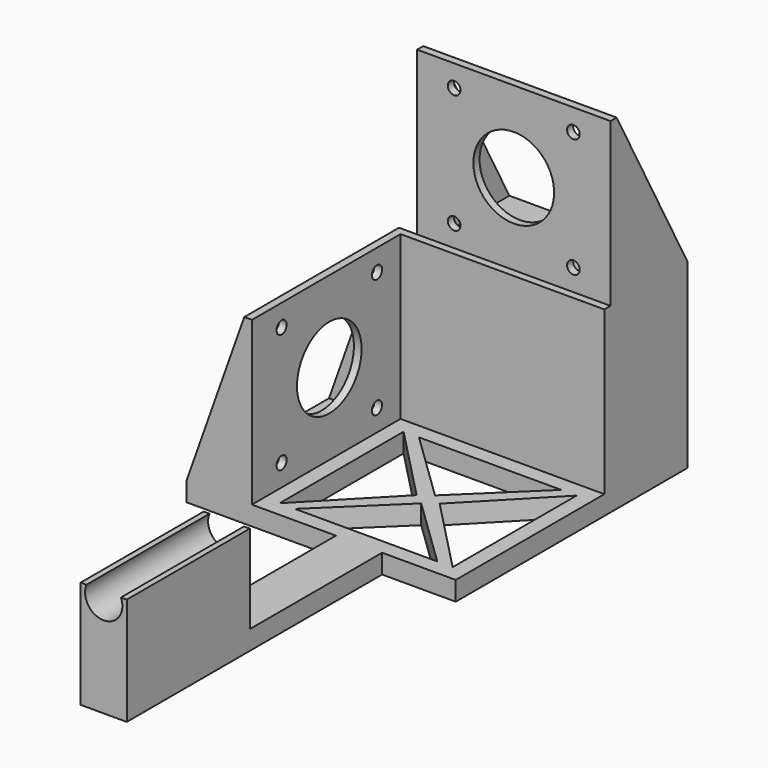
from build123d import *

# Parameters (mm, degrees)
F0_W      = 70
F0_H      = 80
F1_DEPTH  = 5
F2_W      = 2
F2_H      = 42.3
F3_DEPTH  = 42.3
F4_R      = 1.65
F4_R_2    = 10.5
F5_DEPTH  = 25
F7_DEPTH  = 4
F9_DEPTH  = 4
F10_W     = 70
F10_H     = 29.7
F11_DEPTH = 42.3
F12_W     = 42.3
F12_H     = 2
F13_DEPTH = 42.3
F14_R     = 1.65
F14_R_2   = 10.5
F15_DEPTH = 25
F17_DEPTH = 4
F19_DEPTH = 88.9
F21_DEPTH = 4
F22_W     = 19.7
F22_H     = 29.7
F23_DEPTH = 64.9
F24_W     = 53
F24_H     = 2
F25_DEPTH = 45.92
F26_W     = 50.3
F26_H     = 4.7
F27_DEPTH = 73.2
F28_W     = 12
F28_H     = 83
F29_DEPTH = 5
F30_W     = 12
F30_H     = 40
F31_DEPTH = 23
F32_R     = 4.85
F33_DEPTH = 45.2
F35_DEPTH = 25


with BuildPart() as f1:
    # F0 (on Top) → F1 (new body)
    with BuildSketch(Plane.XY):
        with Locations((35, 40)):
            Rectangle(F0_W, F0_H)
    extrude(amount=F1_DEPTH)

    # F2 (on face) → F3 (join)
    with BuildSketch(Plane.XY.offset(5)):
        with Locations((16, 25.15)):
            Rectangle(F2_W, F2_H)
    extrude(amount=F3_DEPTH)

    # F4 (on face) → F5 (cut)
    with BuildSketch(Plane(origin=(15, 0, 0), x_dir=(0, -1, 0), z_dir=(-1, 0, 0))):
        with Locations((-40.65, 41.65)):
            Circle(F4_R)
        with Locations((-9.65, 41.65)):
            Circle(F4_R)
        with Locations((-9.65, 10.65)):
            Circle(F4_R)
        with Locations((-40.65, 10.65)):
            Circle(F4_R)
        with Locations((-25.15, 26.15)):
            Circle(F4_R_2)
    extrude(amount=-F5_DEPTH, mode=Mode.SUBTRACT)

    # F6 (on face) → F7 (join)
    with BuildSketch(Plane(origin=(0, 46.3, 0), x_dir=(-1, 0, 0), z_dir=(0, 1, 0))):
        Polygon((-17, 5), (0, 5), (-15, 47.3), (-17, 47.3), align=None)
    extrude(amount=F7_DEPTH)

    # F8 (on face) → F9 (join)
    with BuildSketch(Plane.XZ.offset(-4)):
        Polygon((17, 5), (17, 47.3), (15, 47.3), (0, 5), (15, 5), align=None)
    extrude(amount=F9_DEPTH)

    # F10 (on face) → F11 (join)
    with BuildSketch(Plane.XY.offset(5)):
        with Locations((35, 65.15)):
            Rectangle(F10_W, F10_H)
    extrude(amount=F11_DEPTH)

    # F12 (on face) → F13 (join)
    with BuildSketch(Plane.XY.offset(47.3)):
        with Locations((44.85, 51.3)):
            Rectangle(F12_W, F12_H)
    extrude(amount=F13_DEPTH)

    # F14 (on face) → F15 (cut)
    with BuildSketch(Plane(origin=(0, 52.3, 0), x_dir=(-1, 0, 0), z_dir=(0, 1, 0))):
        with Locations((-60.35, 83.95)):
            Circle(F14_R)
        with Locations((-29.35, 83.95)):
            Circle(F14_R)
        with Locations((-29.35, 52.95)):
            Circle(F14_R)
        with Locations((-60.35, 52.95)):
            Circle(F14_R)
        with Locations((-44.85, 68.45)):
            Circle(F14_R_2)
    extrude(amount=-F15_DEPTH, mode=Mode.SUBTRACT)

    # F16 (on face) → F17 (join)
    with BuildSketch(Plane.YZ.offset(66)):
        Polygon((52.3, 89.6), (50.3, 89.6), (50.3, 47.3), (75.3, 47.3), align=None)
    extrude(amount=F17_DEPTH)

    # F18 (on face) → F19 (cut)
    with BuildSketch(Plane.XZ.offset(-50.3)):
        Polygon((0, 5), (15, 47.3), (0, 47.3), align=None)
    extrude(amount=-F19_DEPTH, mode=Mode.SUBTRACT)

    # F20 (on face) → F21 (join)
    with BuildSketch(Plane(origin=(23.7, 0, 0), x_dir=(0, -1, 0), z_dir=(-1, 0, 0))):
        Polygon((-50.3, 47.3), (-50.3, 89.6), (-52.3, 89.6), (-75.3, 47.3), align=None)
    extrude(amount=F21_DEPTH)

    # F22 (on face) → F23 (cut)
    with BuildSketch(Plane.XY.offset(47.3)):
        with Locations((9.85, 65.15)):
            Rectangle(F22_W, F22_H)
    extrude(amount=-F23_DEPTH, mode=Mode.SUBTRACT)

    # F24 (on face) → F25 (join)
    with BuildSketch(Plane.XY.offset(47.3)):
        with Locations((43.5, 49.3)):
            Rectangle(F24_W, F24_H)
    extrude(amount=-F25_DEPTH)

    # F26 (on face) → F27 (cut)
    with BuildSketch(Plane.XY.offset(47.3)):
        with Locations((44.85, 77.65)):
            Rectangle(F26_W, F26_H)
    extrude(amount=-F27_DEPTH, mode=Mode.SUBTRACT)

    # F28 (on face) → F29 (join)
    with BuildSketch(Plane.XY.offset(5)):
        with Locations((44.85, -41.5)):
            Rectangle(F28_W, F28_H)
    extrude(amount=-F29_DEPTH)

    # F30 (on face) → F31 (join)
    with BuildSketch(Plane.XY.offset(5)):
        with Locations((44.85, -63)):
            Rectangle(F30_W, F30_H)
    extrude(amount=F31_DEPTH)

    # F32 (on face) → F33 (cut)
    with BuildSketch(Plane.XZ.offset(83)):
        with Locations((44.85, 26.15)):
            Circle(F32_R)
    extrude(amount=-F33_DEPTH, mode=Mode.SUBTRACT)

    # F34 (on face) → F35 (cut)
    with BuildSketch(Plane.XY.offset(5)):
        Polygon((40.5, 24.15), (21, 44.3), (21, 4), align=None)
        Polygon((66, 4), (66, 44.3), (46.5, 24.15), align=None)
        Polygon((62, 44.3), (25, 44.3), (43.5, 26.396774), align=None)
        Polygon((62, 4), (43.5, 21.903226), (25, 4), align=None)
    extrude(amount=-F35_DEPTH, mode=Mode.SUBTRACT)


solid = f1.part
